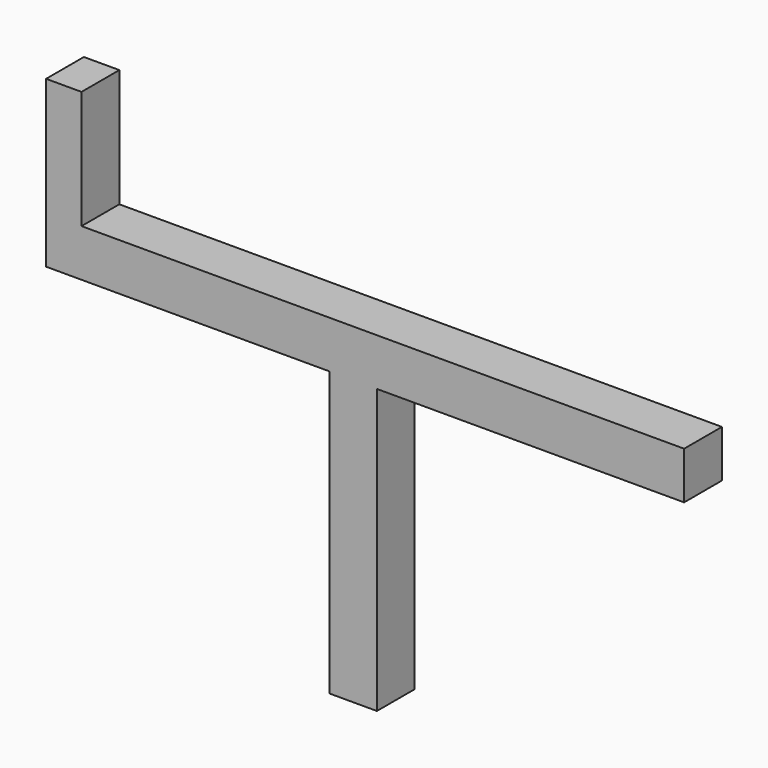
from build123d import *

# Parameters (mm, degrees)
F0_W     = 85.725
F0_H     = 6.35
F1_DEPTH = 6.35
F2_W     = 6.35
F2_H     = 22.225
F3_DEPTH = 4.7625
F4_W     = 6.35
F4_H     = 6.35
F5_DEPTH = 38.1


with BuildPart() as f1:
    # F0 (on Front) → F1 (new body)
    with BuildSketch(Plane.XZ):
        with Locations((-2.977964, 37.027801)):
            Rectangle(F0_W, F0_H)
    extrude(amount=F1_DEPTH)

    # F2 (on face) → F3 (join)
    with BuildSketch(Plane(origin=(-45.840464, 0, 0), x_dir=(0, -1, 0), z_dir=(-1, 0, 0))):
        with Locations((3.175, 44.965301)):
            Rectangle(F2_W, F2_H)
    extrude(amount=-F3_DEPTH)

    # F4 (on face) → F5 (join)
    with BuildSketch(Plane(origin=(0, 0, 33.852801), x_dir=(1, 0, 0), z_dir=(0, 0, -1))):
        with Locations((-4.565464, 3.175)):
            Rectangle(F4_W, F4_H)
    extrude(amount=F5_DEPTH)


solid = f1.part
